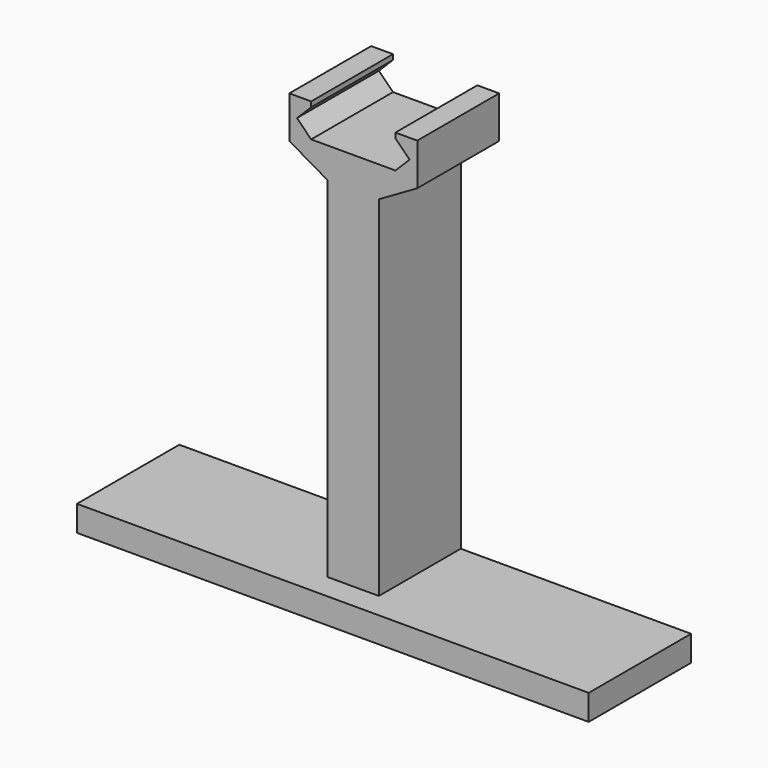
from build123d import *

# Parameters (mm, degrees)
F1_DEPTH = 20
F3_DEPTH = 5


with BuildPart() as f1:
    # F0 (on Front) → F1 (new body)
    with BuildSketch(Plane.XZ):
        Polygon((-50, 5), (-50, 0), (50, 0), (50, 5), (5, 5), (-5, 5), align=None)
        Polygon((-5, 73.235), (-5, 5), (5, 5), (5, 73.235), (12.5, 77.565127), (12.5, 85.765), (8.235, 85.765), (8.235, 84.765), (11, 82), (8.235, 79.235), (0, 79.235), (-8.235, 79.235), (-11, 82), (-8.235, 84.765), (-8.235, 85.765), (-12.5, 85.765), (-12.5, 77.565127), align=None)
    extrude(amount=F1_DEPTH)

    # F2 (on face) → F3 (join)
    with BuildSketch(Plane.XZ.offset(20)):
        Polygon((-5, 5), (-50, 5), (-50, 0), (50, 0), (50, 5), (5, 5), align=None)
    extrude(amount=F3_DEPTH)


solid = f1.part
